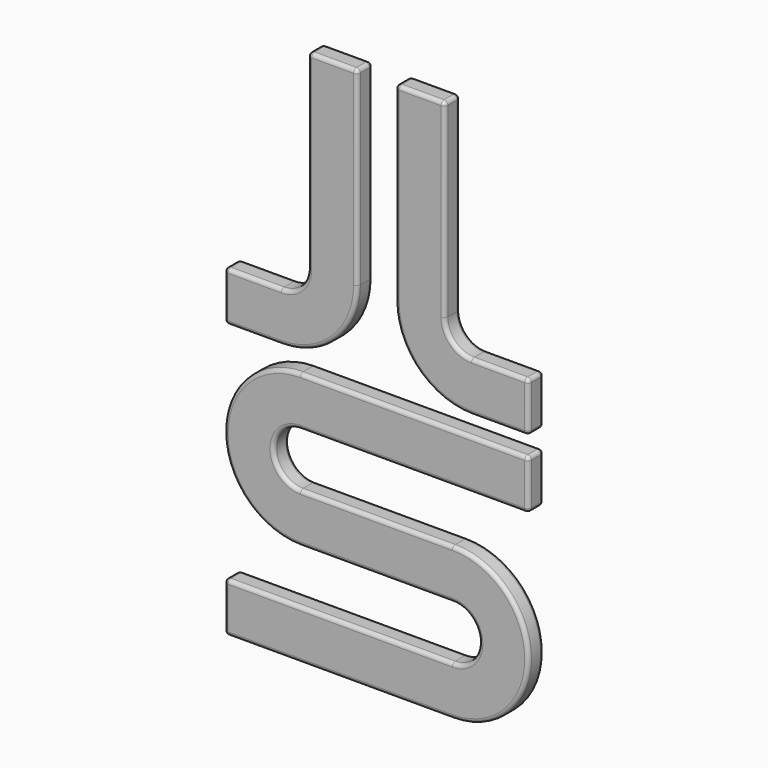
from build123d import *

# Parameters (mm, degrees)
F1_DEPTH = 3.175
F3_R     = 0.635


with BuildPart() as f1:
    # F0 (on Front) → F1 (new body)
    with BuildSketch(Plane.XZ):
        with BuildLine():
            Line((-3.175, 44.45), (-11.43, 44.45))
            Line((-11.43, 44.45), (-11.43, 12.7))
            ThreePointArc((-11.43, 12.7), (-12.73191, 9.55691), (-15.875, 8.255))
            Line((-15.875, 8.255), (-25.4, 8.255))
            Line((-25.4, 8.255), (-25.4, 0))
            Line((-25.4, 0), (-15.875, 0))
            ThreePointArc((-15.875, 0), (-6.894744, 3.719744), (-3.175, 12.7))
            Line((-3.175, 12.7), (-3.175, 44.45))
        make_face()
        with BuildLine():
            Line((11.43, 12.7), (11.43, 44.45))
            Line((11.43, 44.45), (3.175, 44.45))
            Line((3.175, 44.45), (3.175, 12.7))
            ThreePointArc((3.175, 12.7), (6.894744, 3.719744), (15.875, 0))
            Line((15.875, 0), (25.4, 0))
            Line((25.4, 0), (25.4, 8.255))
            Line((25.4, 8.255), (15.875, 8.255))
            ThreePointArc((15.875, 8.255), (12.73191, 9.55691), (11.43, 12.7))
        make_face()
        with BuildLine():
            Line((25.4, -11.43), (25.4, -3.175))
            Line((25.4, -3.175), (-12.7, -3.175))
            ThreePointArc((-12.7, -3.175), (-25.4, -15.875), (-12.7, -28.575))
            Line((-12.7, -28.575), (12.7, -28.575))
            ThreePointArc((12.7, -28.575), (17.145, -33.02), (12.7, -37.465))
            Line((12.7, -37.465), (-25.4, -37.465))
            Line((-25.4, -37.465), (-25.4, -45.72))
            Line((-25.4, -45.72), (12.7, -45.72))
            ThreePointArc((12.7, -45.72), (25.4, -33.02), (12.7, -20.32))
            Line((12.7, -20.32), (-12.7, -20.32))
            ThreePointArc((-12.7, -20.32), (-17.145, -15.875), (-12.7, -11.43))
            Line((-12.7, -11.43), (25.4, -11.43))
        make_face()
    extrude(amount=F1_DEPTH)

    # F3
    f3_edges = [f1.edges().sort_by_distance(p)[0] for p in [
        (12.73191, -3.175, 9.55691),
        (11.43, -3.175, 28.575),
        (7.3025, -3.175, 44.45),
        (3.175, -3.175, 28.575),
        (6.894744, -3.175, 3.719744),
        (20.6375, -3.175, 0),
        (25.4, -3.175, 4.1275),
        (20.6375, -3.175, 8.255),
        (-3.175, -3.175, 28.575),
        (-7.3025, -3.175, 44.45),
        (-11.43, -3.175, 28.575),
        (-12.73191, -3.175, 9.55691),
        (-20.6375, -3.175, 8.255),
        (-25.4, -3.175, 4.1275),
        (-20.6375, -3.175, 0),
        (-6.894744, -3.175, 3.719744),
        (25.4, -3.175, -33.02),
        (0, -3.175, -20.32),
        (-17.145, -3.175, -15.875),
        (6.35, -3.175, -11.43),
        (25.4, -3.175, -7.3025),
        (6.35, -3.175, -3.175),
        (-25.4, -3.175, -15.875),
        (0, -3.175, -28.575),
        (17.145, -3.175, -33.02),
        (-6.35, -3.175, -37.465),
        (-25.4, -3.175, -41.5925),
        (-6.35, -3.175, -45.72),
        (25.4, -1.5875, 0),
        (25.4, -1.5875, 8.255),
        (25.4, 0, 4.1275),
        (25.4, -1.5875, -11.43),
        (25.4, -1.5875, -3.175),
        (25.4, 0, -7.3025),
        (12.7, -1.5875, -45.72),
        (12.7, -1.5875, -20.32),
        (25.4, 0, -33.02),
        (12.7, -1.5875, -37.465),
        (-25.4, -1.5875, -37.465),
        (-6.35, 0, -37.465),
        (-25.4, -1.5875, 8.255),
        (-25.4, -1.5875, 0),
        (-25.4, 0, 4.1275),
        (11.43, -1.5875, 44.45),
        (3.175, -1.5875, 44.45),
        (7.3025, 0, 44.45),
        (-3.175, -1.5875, 44.45),
        (-11.43, -1.5875, 44.45),
        (-7.3025, 0, 44.45),
        (-3.175, 0, 28.575),
        (-11.43, 0, 28.575),
        (-12.73191, 0, 9.55691),
        (-20.6375, 0, 8.255),
        (-20.6375, 0, 0),
        (-6.894744, 0, 3.719744),
        (12.73191, 0, 9.55691),
        (11.43, 0, 28.575),
        (3.175, 0, 28.575),
        (6.894744, 0, 3.719744),
        (20.6375, 0, 0),
        (20.6375, 0, 8.255),
        (0, 0, -20.32),
        (-17.145, 0, -15.875),
        (6.35, 0, -11.43),
        (6.35, 0, -3.175),
        (-25.4, 0, -15.875),
        (0, 0, -28.575),
        (17.145, 0, -33.02),
        (-25.4, 0, -41.5925),
        (-6.35, 0, -45.72),
        (-25.4, -1.5875, -45.72),
    ]]
    fillet(f3_edges, radius=F3_R)


solid = f1.part
